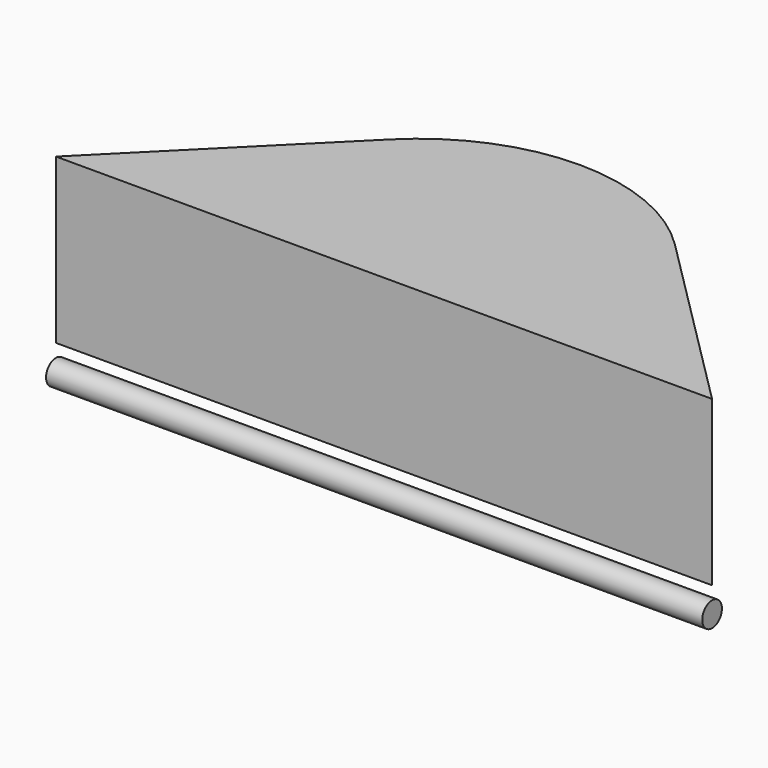
from build123d import *

# Parameters (mm, degrees)
F1_DEPTH = 100
F2_R     = 7.5
F3_DEPTH = 400


with BuildPart() as f1:
    # F0 (on Top) → F1 (new body)
    with BuildSketch(Plane.XY):
        with BuildLine():
            Line((113.137085, 113.137085), (0, 0))
            Line((0, 0), (400, 0))
            Line((400, 0), (286.862915, 113.137085))
            ThreePointArc((286.862915, 113.137085), (200, 149.116882), (113.137085, 113.137085))
        make_face()
    extrude(amount=-F1_DEPTH)


with BuildPart() as f3:
    # F2 (on Right) → F3 (new body)
    with BuildSketch(Plane.YZ):
        with Locations((0, -115.530449)):
            Circle(F2_R)
    extrude(amount=F3_DEPTH)


solid = Compound([f1.part, f3.part])
